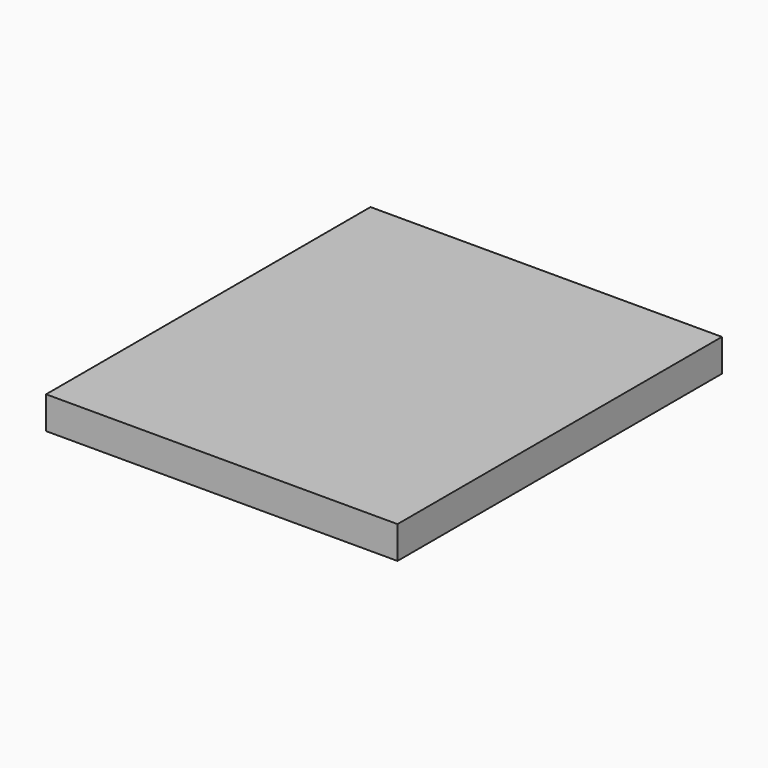
from build123d import *

# Parameters (mm, degrees)
F0_W          = 260
F0_H          = 24
F1_DEPTH      = 150
F1_DEPTH_BACK = 150


with BuildPart() as f1:
    # F0 (on Front) → F1 (new body, two sides)
    with BuildSketch(Plane.XZ) as f1_sk:
        Rectangle(F0_W, F0_H)
    extrude(amount=-F1_DEPTH)
    extrude(f1_sk.sketch, amount=F1_DEPTH_BACK)


solid = f1.part
